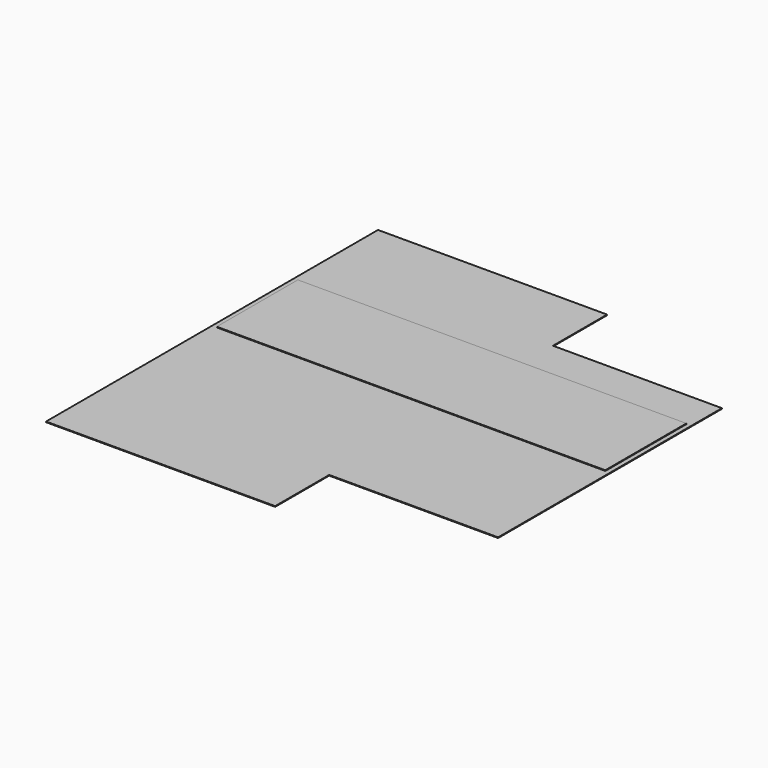
from build123d import *

# Parameters (mm, degrees)
F0_W     = 100
F0_H     = 31
F2_DEPTH = 1
F3_START = 1
F1_W     = 325
F1_H     = 150
F1_W_2   = 250
F3_DEPTH = 1


with BuildPart() as f2:
    # F0 (on Top) → F2 (new body)
    with BuildSketch(Plane.XY):
        Polygon((-294.5, 100), (-294.5, -100), (-294.5, -300), (-294.5, -407), (44.5, -407), (44.5, -307), (294.5, -307), (294.5, -100), (294.5, 107), (44.5, 107), (44.5, 207), (-294.5, 207), align=None)
        with Locations((212.5101804733, -57.5)):
            Rectangle(F0_W, F0_H, mode=Mode.SUBTRACT)
        with Locations((212.5101804733, 57.5)):
            Rectangle(F0_W, F0_H, mode=Mode.SUBTRACT)
        with Locations((212.5101804733, 57.5)):
            Rectangle(F0_W, F0_H)
        with Locations((212.5101804733, -57.5)):
            Rectangle(F0_W, F0_H)
    extrude(amount=F2_DEPTH)


with BuildPart() as f3:
    # F1 (on Top) → F3 (new body)
    with BuildSketch(Plane.XY.offset(F3_START)):
        with Locations((-125, -25)):
            Rectangle(F1_W, F1_H)
        with Locations((162.5, -25)):
            Rectangle(F1_W_2, F1_H)
    extrude(amount=F3_DEPTH)


solid = Compound([f2.part, f3.part])
